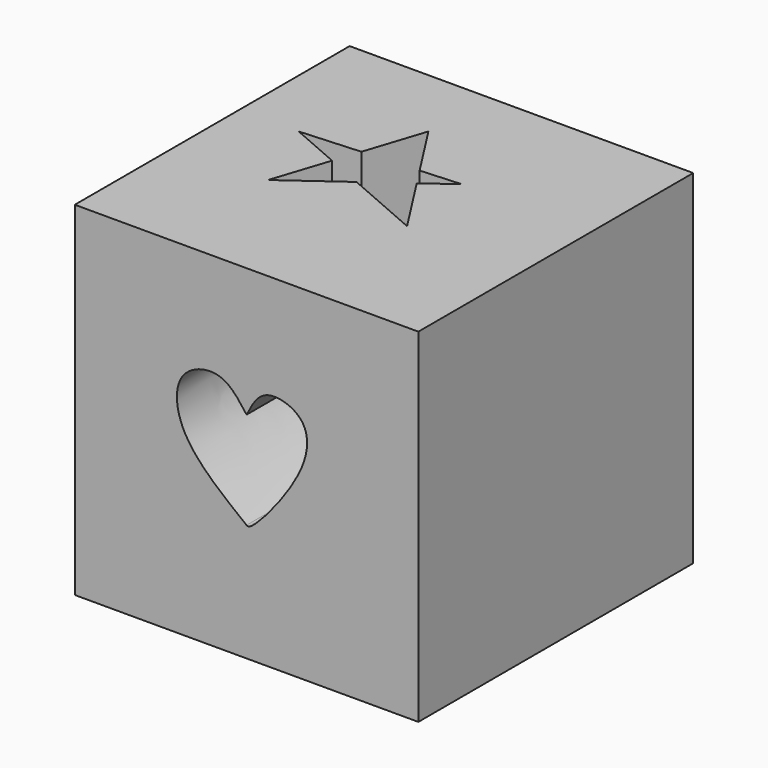
from build123d import *

# Parameters (mm, degrees)
F0_W     = 152.4
F0_H     = 152.4
F1_DEPTH = 152.4
F3_DEPTH = 152.401
F5_DEPTH = 152.4010001


with BuildPart() as f1:
    # F0 (on Front) → F1 (new body)
    with BuildSketch(Plane.XZ):
        Rectangle(F0_W, F0_H)
    extrude(amount=F1_DEPTH)

    # F2 (on face) → F3 (cut, through all)
    with BuildSketch(Plane.XZ.offset(152.4)):
        with BuildLine():
            add(Edge.make_bspline(
                [(0, 18.9885478467), (2.2877783846, 23.507848619), (7.0074446824, 32.8311255975), (28.0399798927, 26.9928876136), (27.7325255602, 3.8710650771), (2.549604096, -25.3937994176), (0.366847498, -24.3293767329), (0, -24.1504833102)],
                knots=[0, 0, 0, 0, 0.1906948279, 0.3934017203, 0.62823232, 0.9375184373, 1, 1, 1, 1], degree=3))
            add(Edge.make_bspline(
                [(0, 18.9885478467), (-3.6254483043, 23.890919406), (-10.813929077, 33.6112631366), (-32.2541627591, 27.5324525718), (-31.2898072165, 0.3074590023), (-11.4789336777, -15.1778777662), (0, -24.1504833102)],
                knots=[0, 0, 0, 0, 0.2155665563, 0.4274219117, 0.6682334129, 1, 1, 1, 1], degree=3))
        make_face()
    extrude(amount=-F3_DEPTH, mode=Mode.SUBTRACT)

    # F4 (on face) → F5 (cut, through all)
    with BuildSketch(Plane.XY.offset(76.2)):
        Polygon((-27.2764177342, -70.8939010665), (-35.5101823807, -96.1207523942), (-10.6856808608, -78.102970075), align=None)
        Polygon((-49.9869100749, -61.0256530344), (-27.2764177342, -70.8939010665), (-23.5049953566, -59.3389057884), align=None)
        Polygon((-23.5049953566, -59.3389057884), (-27.2764177342, -70.8939010665), (-10.6856808608, -78.102970075), (6.2269671638, -65.8276617347), (1.0542124945, -57.7746240267), align=None)
        Polygon((6.2269671638, -65.8276617347), (-10.6856808608, -78.102970075), (23.712804541, -93.049928546), align=None)
        Polygon((-14.8918088526, -32.9495705664), (-23.5049953566, -59.3389057884), (1.0542124945, -57.7746240267), align=None)
        Polygon((1.0542124945, -57.7746240267), (6.2269671638, -65.8276617347), (18.8872292638, -56.6387623549), align=None)
    extrude(amount=-F5_DEPTH, mode=Mode.SUBTRACT)


solid = f1.part
